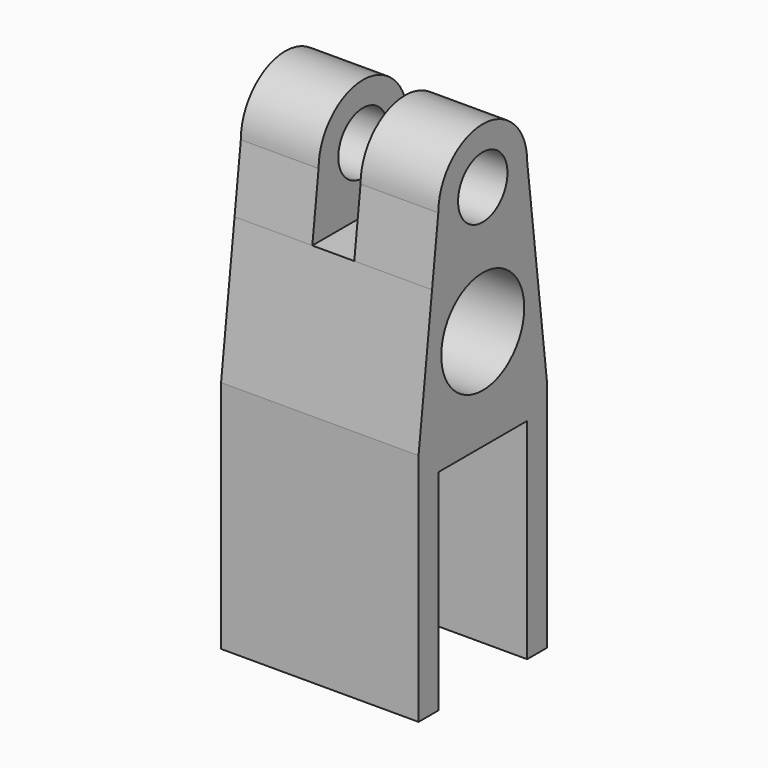
from build123d import *

# Parameters (mm, degrees)
F0_R          = 2.5
F0_R_2        = 4.2
F0_W          = 2
F0_H          = 17
F1_DEPTH      = 8
F1_DEPTH_BACK = 8
F2_DEPTH      = 1.7
F2_DEPTH_BACK = 1.7


with BuildPart() as f1:
    # F0 (on Right) → F1 (new body, two sides)
    with BuildSketch(Plane.YZ) as f1_sk:
        with BuildLine():
            ThreePointArc((-4.5, 0), (0, -4.5), (4.5, 0))
            ThreePointArc((4.5, 0), (0, 4.5), (-4.5, 0))
        make_face()
        Circle(F0_R, mode=Mode.SUBTRACT)
        with BuildLine():
            Line((5.1343380294, -5.2332887426), (4.5, 0))
            ThreePointArc((4.5, 0), (0, -4.5), (-4.5, 0))
            Line((-4.5, 0), (-5.1343380294, -5.2332887426))
            Line((-5.1343380294, -5.2332887426), (0, -5.2332887426))
            Line((0, -5.2332887426), (5.1343380294, -5.2332887426))
        make_face()
        Polygon((6.5, -16.5), (5.1343380294, -5.2332887426), (0, -5.2332887426), (-5.1343380294, -5.2332887426), (-6.5, -16.5), align=None)
        with Locations((0, -10.3)):
            Circle(F0_R_2, mode=Mode.SUBTRACT)
        Polygon((6.5, -18.5), (6.5, -16.5), (-6.5, -16.5), (-6.5, -18.5), (-4.5, -18.5), (4.5, -18.5), align=None)
        with Locations((5.5, -27)):
            Rectangle(F0_W, F0_H)
        with Locations((-5.5, -27)):
            Rectangle(F0_W, F0_H)
    extrude(amount=F1_DEPTH)
    extrude(f1_sk.sketch, amount=-F1_DEPTH_BACK)

    # F0 (on Right) → F2 (cut, two sides)
    with BuildSketch(Plane.YZ) as f2_sk:
        with BuildLine():
            ThreePointArc((-4.5, 0), (0, -4.5), (4.5, 0))
            ThreePointArc((4.5, 0), (0, 4.5), (-4.5, 0))
        make_face()
        Circle(F0_R, mode=Mode.SUBTRACT)
        with BuildLine():
            Line((5.1343380294, -5.2332887426), (4.5, 0))
            ThreePointArc((4.5, 0), (0, -4.5), (-4.5, 0))
            Line((-4.5, 0), (-5.1343380294, -5.2332887426))
            Line((-5.1343380294, -5.2332887426), (0, -5.2332887426))
            Line((0, -5.2332887426), (5.1343380294, -5.2332887426))
        make_face()
    extrude(amount=-F2_DEPTH, mode=Mode.SUBTRACT)
    extrude(f2_sk.sketch, amount=F2_DEPTH_BACK, mode=Mode.SUBTRACT)


solid = f1.part
